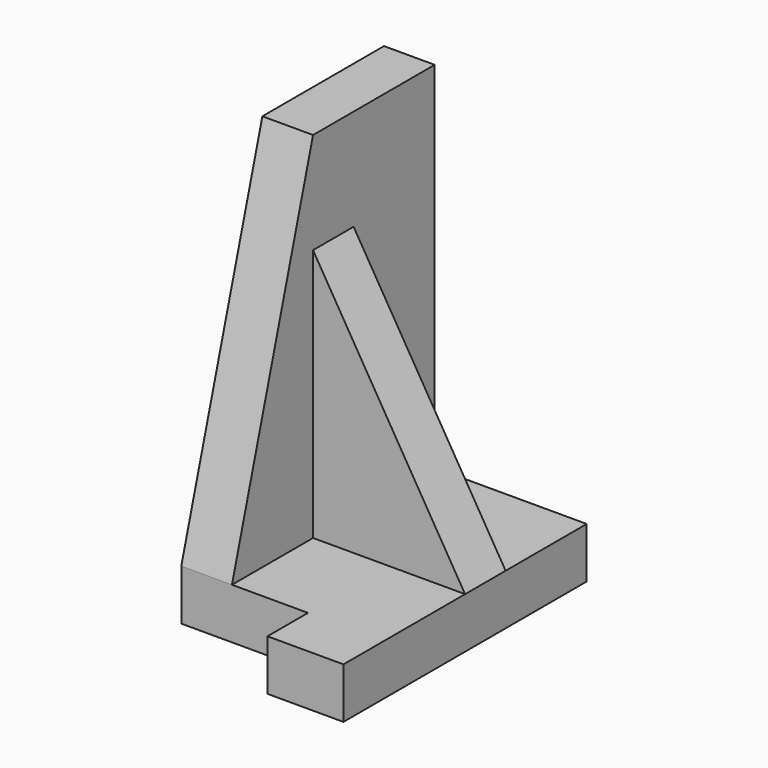
from build123d import *

# Parameters (mm, degrees)
F1_DEPTH = 127
F3_DEPTH = 127
F5_DEPTH = 381
F6_DEPTH = 254


with BuildPart() as f1:
    # F0 (on Top) → F1 (new body)
    with BuildSketch(Plane.XY):
        Polygon((508, 254), (0, 254), (0, -381), (317.5, -381), (317.5, -508), (508, -508), align=None)
    extrude(amount=F1_DEPTH)

    # F2 (on face) → F3 (join)
    with BuildSketch(Plane(origin=(0, 0, 0), x_dir=(0, -1, 0), z_dir=(-1, 0, 0))):
        Polygon((-254, 1016), (-254, 127), (381, 127), (127, 1016), align=None)
    extrude(amount=-F3_DEPTH)

    # F4 (on face) → F5 (join)
    with BuildSketch(Plane(origin=(0, 254, 0), x_dir=(-1, 0, 0), z_dir=(0, 1, 0))):
        Polygon((-508, 127), (-127, 127), (-127, 762), align=None)
    extrude(amount=-F5_DEPTH)

    # F4 (on face) → F6 (cut)
    with BuildSketch(Plane(origin=(0, 254, 0), x_dir=(-1, 0, 0), z_dir=(0, 1, 0))):
        Polygon((-508, 127), (-127, 127), (-127, 762), align=None)
    extrude(amount=-F6_DEPTH, mode=Mode.SUBTRACT)


solid = f1.part
